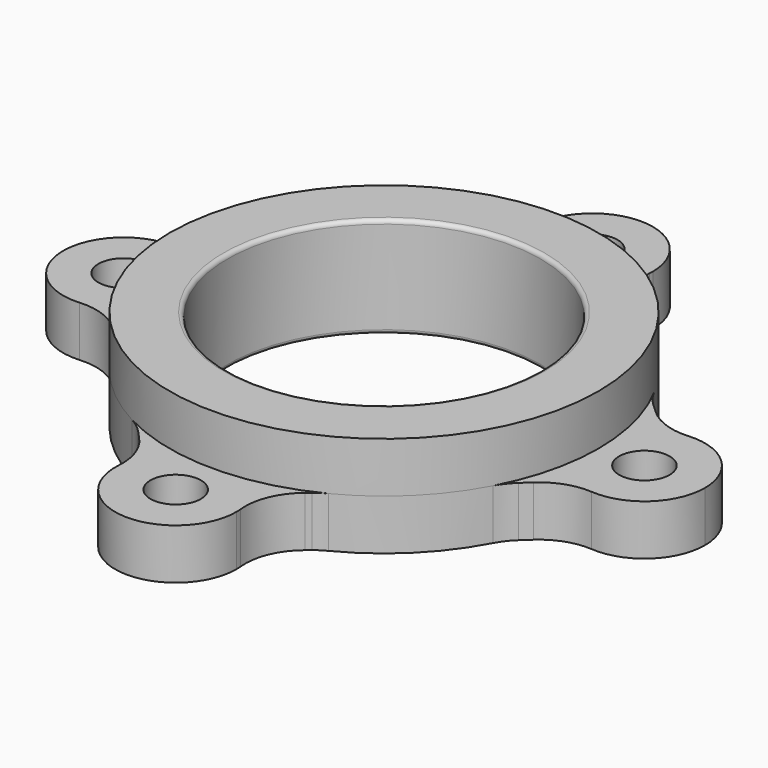
from build123d import *

# Parameters (mm, degrees)
F0_R     = 3.175
F0_R_2   = 20.32
F1_DEPTH = 6.35
F2_R     = 7.62
F3_R     = 26.9875
F3_R_2   = 19.685
F4_DEPTH = 12.7
F5_R     = 0.508


with BuildPart() as f1:
    # F0 (on Top) → F1 (new body)
    with BuildSketch(Plane.XY):
        with BuildLine():
            ThreePointArc((-11.5499308761, 24.3910691239), (-8.0975226707, 25.7440339273), (-4.4922459427, 26.6109917636))
            ThreePointArc((-4.4922459427, 26.6109917636), (-5.8575862517, 27.8922864976), (-6.8692513658, 29.4678511747))
            Line((-6.8692513658, 29.4678511747), (-11.5499308761, 24.3910691239))
        make_face()
        with BuildLine():
            ThreePointArc((4.4922459427, 26.6109917636), (8.0975226707, 25.7440339273), (11.5499308761, 24.3910691239))
            Line((11.5499308761, 24.3910691239), (6.8692513658, 29.4678511747))
            ThreePointArc((6.8692513658, 29.4678511747), (5.8575862517, 27.8922864976), (4.4922459427, 26.6109917636))
        make_face()
        with BuildLine():
            ThreePointArc((-4.4922459427, 26.6109917636), (0, 26.9875), (4.4922459427, 26.6109917636))
            ThreePointArc((4.4922459427, 26.6109917636), (5.8575862517, 27.8922864976), (6.8692513658, 29.4678511747))
            ThreePointArc((6.8692513658, 29.4678511747), (7.4299426447, 31.0747423921), (7.62, 32.766))
            ThreePointArc((7.62, 32.766), (-1.6912576079, 40.1959426447), (-6.8692513658, 29.4678511747))
            ThreePointArc((-6.8692513658, 29.4678511747), (-5.8575862517, 27.8922864976), (-4.4922459427, 26.6109917636))
        make_face()
        with Locations((0, 32.766)):
            Circle(F0_R, mode=Mode.SUBTRACT)
        with BuildLine():
            ThreePointArc((-4.4922459427, 26.6109917636), (0, 25.146), (4.4922459427, 26.6109917636))
            ThreePointArc((4.4922459427, 26.6109917636), (0, 26.9875), (-4.4922459427, 26.6109917636))
        make_face()
        with BuildLine():
            ThreePointArc((-26.6109917636, 4.4922459427), (-25.7440339273, 8.0975226707), (-24.3910691239, 11.5499308761))
            Line((-24.3910691239, 11.5499308761), (-29.4678511747, 6.8692513658))
            ThreePointArc((-29.4678511747, 6.8692513658), (-27.8922864976, 5.8575862517), (-26.6109917636, 4.4922459427))
        make_face()
        with BuildLine():
            ThreePointArc((-26.6109917636, -4.4922459427), (-26.9875, 0), (-26.6109917636, 4.4922459427))
            ThreePointArc((-26.6109917636, 4.4922459427), (-27.8922864976, 5.8575862517), (-29.4678511747, 6.8692513658))
            ThreePointArc((-29.4678511747, 6.8692513658), (-40.386, 0), (-29.4678511747, -6.8692513658))
            ThreePointArc((-29.4678511747, -6.8692513658), (-27.8922864976, -5.8575862517), (-26.6109917636, -4.4922459427))
        make_face()
        with Locations((-32.766, 0)):
            Circle(F0_R, mode=Mode.SUBTRACT)
        with BuildLine():
            ThreePointArc((-25.146, 0), (-25.521499922, 2.3625449454), (-26.6109917636, 4.4922459427))
            ThreePointArc((-26.6109917636, 4.4922459427), (-26.9875, 0), (-26.6109917636, -4.4922459427))
            ThreePointArc((-26.6109917636, -4.4922459427), (-25.521499922, -2.3625449454), (-25.146, 0))
        make_face()
        with BuildLine():
            ThreePointArc((-24.3910691239, -11.5499308761), (-25.7440339273, -8.0975226707), (-26.6109917636, -4.4922459427))
            ThreePointArc((-26.6109917636, -4.4922459427), (-27.8922864976, -5.8575862517), (-29.4678511747, -6.8692513658))
            Line((-29.4678511747, -6.8692513658), (-24.3910691239, -11.5499308761))
        make_face()
        with BuildLine():
            ThreePointArc((-6.8692513658, -29.4678511747), (-5.8575862517, -27.8922864976), (-4.4922459427, -26.6109917636))
            ThreePointArc((-4.4922459427, -26.6109917636), (-8.0975226707, -25.7440339273), (-11.5499308761, -24.3910691239))
            Line((-11.5499308761, -24.3910691239), (-6.8692513658, -29.4678511747))
        make_face()
        with BuildLine():
            ThreePointArc((-4.4922459427, -26.6109917636), (0, -26.9875), (4.4922459427, -26.6109917636))
            ThreePointArc((4.4922459427, -26.6109917636), (0, -25.146), (-4.4922459427, -26.6109917636))
        make_face()
        with BuildLine():
            ThreePointArc((6.3892768918, -28.6137065614), (5.5321425722, -27.5257902179), (4.4922459427, -26.6109917636))
            ThreePointArc((4.4922459427, -26.6109917636), (0, -26.9875), (-4.4922459427, -26.6109917636))
            ThreePointArc((-4.4922459427, -26.6109917636), (-5.8575862517, -27.8922864976), (-6.8692513658, -29.4678511747))
            ThreePointArc((-6.8692513658, -29.4678511747), (-1.6912576079, -40.1959426447), (7.62, -32.766))
            ThreePointArc((7.62, -32.766), (7.3058432065, -30.6005773987), (6.3892768918, -28.6137065614))
        make_face()
        with Locations((0, -32.766)):
            Circle(F0_R, mode=Mode.SUBTRACT)
        with BuildLine():
            ThreePointArc((6.3892768918, -28.6137065614), (5.5321425722, -27.5257902179), (4.4922459427, -26.6109917636))
            ThreePointArc((4.4922459427, -26.6109917636), (0, -26.9875), (-4.4922459427, -26.6109917636))
            ThreePointArc((-4.4922459427, -26.6109917636), (-5.8575862517, -27.8922864976), (-6.8692513658, -29.4678511747))
            ThreePointArc((-6.8692513658, -29.4678511747), (-1.6912576079, -40.1959426447), (7.62, -32.766))
            ThreePointArc((7.62, -32.766), (7.3058432065, -30.6005773987), (6.3892768918, -28.6137065614))
        make_face()
        with Locations((0, -32.766)):
            Circle(F0_R, mode=Mode.SUBTRACT)
        with BuildLine():
            Line((6.3892768918, -28.6137065614), (11.5499308761, -24.3910691239))
            ThreePointArc((11.5499308761, -24.3910691239), (8.0975226707, -25.7440339273), (4.4922459427, -26.6109917636))
            ThreePointArc((4.4922459427, -26.6109917636), (5.5321425722, -27.5257902179), (6.3892768918, -28.6137065614))
        make_face()
        with BuildLine():
            ThreePointArc((29.4678511747, -6.8692513658), (27.8922864976, -5.8575862517), (26.6109917636, -4.4922459427))
            ThreePointArc((26.6109917636, -4.4922459427), (25.7440339273, -8.0975226707), (24.3910691239, -11.5499308761))
            Line((24.3910691239, -11.5499308761), (29.4678511747, -6.8692513658))
        make_face()
        with BuildLine():
            ThreePointArc((29.4678511747, 6.8692513658), (27.8922864976, 5.8575862517), (26.6109917636, 4.4922459427))
            ThreePointArc((26.6109917636, 4.4922459427), (26.8932082176, 2.2539982288), (26.9875, 0))
            ThreePointArc((26.9875, 0), (26.8932082176, -2.2539982288), (26.6109917636, -4.4922459427))
            ThreePointArc((26.6109917636, -4.4922459427), (27.8922864976, -5.8575862517), (29.4678511747, -6.8692513658))
            ThreePointArc((29.4678511747, -6.8692513658), (36.8238631046, -6.4496625512), (40.386, 0))
            ThreePointArc((40.386, 0), (36.8238631046, 6.4496625512), (29.4678511747, 6.8692513658))
        make_face()
        with Locations((32.766, 0)):
            Circle(F0_R, mode=Mode.SUBTRACT)
        with BuildLine():
            ThreePointArc((26.9875, 0), (26.8932082176, 2.2539982288), (26.6109917636, 4.4922459427))
            ThreePointArc((26.6109917636, 4.4922459427), (25.146, 0), (26.6109917636, -4.4922459427))
            ThreePointArc((26.6109917636, -4.4922459427), (26.8932082176, -2.2539982288), (26.9875, 0))
        make_face()
        with BuildLine():
            Line((29.4678511747, 6.8692513658), (24.3910691239, 11.5499308761))
            ThreePointArc((24.3910691239, 11.5499308761), (25.7440339273, 8.0975226707), (26.6109917636, 4.4922459427))
            ThreePointArc((26.6109917636, 4.4922459427), (27.8922864976, 5.8575862517), (29.4678511747, 6.8692513658))
        make_face()
        with BuildLine():
            ThreePointArc((26.6109917636, 4.4922459427), (25.7440339273, 8.0975226707), (24.3910691239, 11.5499308761))
            ThreePointArc((24.3910691239, 11.5499308761), (19.0830442573, 19.0830442573), (11.5499308761, 24.3910691239))
            ThreePointArc((11.5499308761, 24.3910691239), (8.0975226707, 25.7440339273), (4.4922459427, 26.6109917636))
            ThreePointArc((4.4922459427, 26.6109917636), (0, 25.146), (-4.4922459427, 26.6109917636))
            ThreePointArc((-4.4922459427, 26.6109917636), (-8.0975226707, 25.7440339273), (-11.5499308761, 24.3910691239))
            ThreePointArc((-11.5499308761, 24.3910691239), (-19.0830442573, 19.0830442573), (-24.3910691239, 11.5499308761))
            ThreePointArc((-24.3910691239, 11.5499308761), (-25.7440339273, 8.0975226707), (-26.6109917636, 4.4922459427))
            ThreePointArc((-26.6109917636, 4.4922459427), (-25.521499922, 2.3625449454), (-25.146, 0))
            ThreePointArc((-25.146, 0), (-25.521499922, -2.3625449454), (-26.6109917636, -4.4922459427))
            ThreePointArc((-26.6109917636, -4.4922459427), (-25.7440339273, -8.0975226707), (-24.3910691239, -11.5499308761))
            ThreePointArc((-24.3910691239, -11.5499308761), (-19.0830442573, -19.0830442573), (-11.5499308761, -24.3910691239))
            ThreePointArc((-11.5499308761, -24.3910691239), (-8.0975226707, -25.7440339273), (-4.4922459427, -26.6109917636))
            ThreePointArc((-4.4922459427, -26.6109917636), (0, -25.146), (4.4922459427, -26.6109917636))
            ThreePointArc((4.4922459427, -26.6109917636), (8.0975226707, -25.7440339273), (11.5499308761, -24.3910691239))
            ThreePointArc((11.5499308761, -24.3910691239), (19.0830442573, -19.0830442573), (24.3910691239, -11.5499308761))
            ThreePointArc((24.3910691239, -11.5499308761), (25.7440339273, -8.0975226707), (26.6109917636, -4.4922459427))
            ThreePointArc((26.6109917636, -4.4922459427), (25.146, 0), (26.6109917636, 4.4922459427))
        make_face()
        Circle(F0_R_2, mode=Mode.SUBTRACT)
        with BuildLine():
            ThreePointArc((-4.4922459427, 26.6109917636), (0, 26.9875), (4.4922459427, 26.6109917636))
            ThreePointArc((4.4922459427, 26.6109917636), (5.8575862517, 27.8922864976), (6.8692513658, 29.4678511747))
            ThreePointArc((6.8692513658, 29.4678511747), (7.4299426447, 31.0747423921), (7.62, 32.766))
            ThreePointArc((7.62, 32.766), (-1.6912576079, 40.1959426447), (-6.8692513658, 29.4678511747))
            ThreePointArc((-6.8692513658, 29.4678511747), (-5.8575862517, 27.8922864976), (-4.4922459427, 26.6109917636))
        make_face()
        with Locations((0, 32.766)):
            Circle(F0_R, mode=Mode.SUBTRACT)
        with BuildLine():
            ThreePointArc((-26.6109917636, -4.4922459427), (-26.9875, 0), (-26.6109917636, 4.4922459427))
            ThreePointArc((-26.6109917636, 4.4922459427), (-27.8922864976, 5.8575862517), (-29.4678511747, 6.8692513658))
            ThreePointArc((-29.4678511747, 6.8692513658), (-40.386, 0), (-29.4678511747, -6.8692513658))
            ThreePointArc((-29.4678511747, -6.8692513658), (-27.8922864976, -5.8575862517), (-26.6109917636, -4.4922459427))
        make_face()
        with Locations((-32.766, 0)):
            Circle(F0_R, mode=Mode.SUBTRACT)
        with BuildLine():
            ThreePointArc((29.4678511747, 6.8692513658), (27.8922864976, 5.8575862517), (26.6109917636, 4.4922459427))
            ThreePointArc((26.6109917636, 4.4922459427), (26.8932082176, 2.2539982288), (26.9875, 0))
            ThreePointArc((26.9875, 0), (26.8932082176, -2.2539982288), (26.6109917636, -4.4922459427))
            ThreePointArc((26.6109917636, -4.4922459427), (27.8922864976, -5.8575862517), (29.4678511747, -6.8692513658))
            ThreePointArc((29.4678511747, -6.8692513658), (36.8238631046, -6.4496625512), (40.386, 0))
            ThreePointArc((40.386, 0), (36.8238631046, 6.4496625512), (29.4678511747, 6.8692513658))
        make_face()
        with Locations((32.766, 0)):
            Circle(F0_R, mode=Mode.SUBTRACT)
        with BuildLine():
            ThreePointArc((6.3892768918, -28.6137065614), (5.5321425722, -27.5257902179), (4.4922459427, -26.6109917636))
            ThreePointArc((4.4922459427, -26.6109917636), (0, -26.9875), (-4.4922459427, -26.6109917636))
            ThreePointArc((-4.4922459427, -26.6109917636), (-5.8575862517, -27.8922864976), (-6.8692513658, -29.4678511747))
            ThreePointArc((-6.8692513658, -29.4678511747), (-1.6912576079, -40.1959426447), (7.62, -32.766))
            ThreePointArc((7.62, -32.766), (7.3058432065, -30.6005773987), (6.3892768918, -28.6137065614))
        make_face()
        with Locations((0, -32.766)):
            Circle(F0_R, mode=Mode.SUBTRACT)
    extrude(amount=F1_DEPTH)

    # F2
    f2_edges = [f1.edges().sort_by_distance(p)[0] for p in [
        (-6.869251, 29.467851, 3.175),
        (-29.467851, 6.869251, 3.175),
        (-29.467851, -6.869251, 3.175),
        (-24.391069, -11.549931, 3.175),
        (-11.549931, -24.391069, 3.175),
        (-6.869251, -29.467851, 3.175),
        (6.389277, -28.613707, 3.175),
        (11.549931, -24.391069, 3.175),
        (24.391069, -11.549931, 3.175),
        (29.467851, -6.869251, 3.175),
        (29.467851, 6.869251, 3.175),
        (24.391069, 11.549931, 3.175),
        (11.549931, 24.391069, 3.175),
        (6.869251, 29.467851, 3.175),
        (-11.549931, 24.391069, 3.175),
        (-24.391069, 11.549931, 3.175),
    ]]
    fillet(f2_edges, radius=F2_R)

    # F3 (on Top) → F4 (join)
    with BuildSketch(Plane.XY):
        Circle(F3_R)
        Circle(F3_R_2, mode=Mode.SUBTRACT)
    extrude(amount=F4_DEPTH)

    # F5
    f5_edges = [f1.edges().sort_by_distance(p)[0] for p in [
        (-19.685, 0, 12.7),
        (-19.685, 0, 0),
    ]]
    fillet(f5_edges, radius=F5_R)


solid = f1.part
